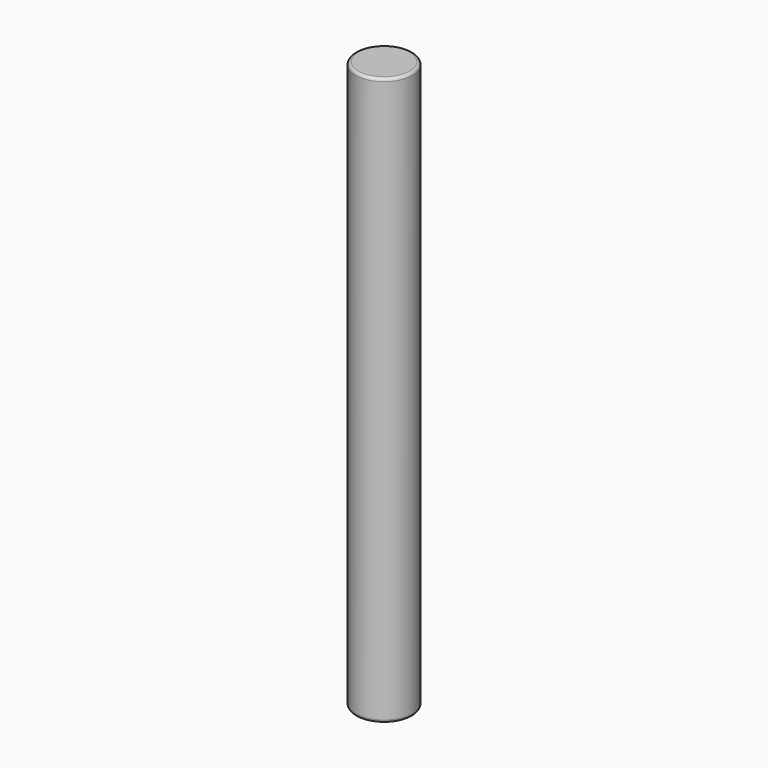
from build123d import *

# Parameters (mm, degrees)
F0_R     = 50.211231
F1_DEPTH = 500
F2_R     = 5.08
F3_R     = 5.08


with BuildPart() as f1:
    # F0 (on Top) → F1 (new body, symmetric)
    with BuildSketch(Plane.XY):
        Circle(F0_R)
    extrude(amount=F1_DEPTH, both=True)

    # F2
    f2_edges = [f1.edges().sort_by_distance(p)[0] for p in [
        (-50.211231, 0, -500),
    ]]
    fillet(f2_edges, radius=F2_R)

    # F3
    f3_edges = [f1.edges().sort_by_distance(p)[0] for p in [
        (-50.211231, 0, 500),
    ]]
    fillet(f3_edges, radius=F3_R)


solid = f1.part
